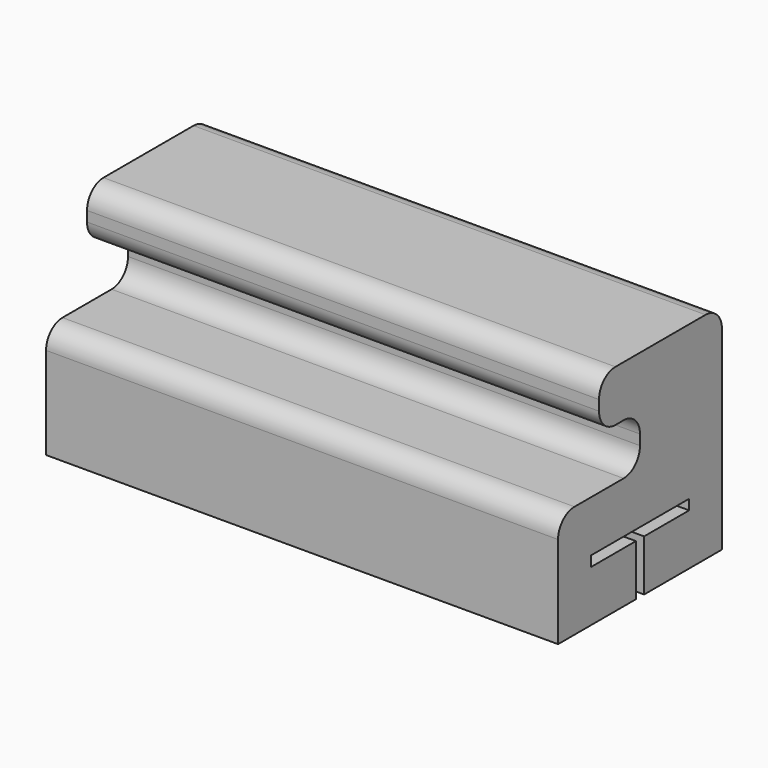
from build123d import *

# Parameters (mm, degrees)
F1_DEPTH = 25


with BuildPart() as f1:
    # F0 (on Right) → F1 (new body, symmetric)
    with BuildSketch(Plane.YZ):
        with BuildLine():
            Line((0.5, 0), (10, 0))
            Line((10, 0), (10, 19))
            ThreePointArc((10, 19), (9.414214, 20.414214), (8, 21))
            Line((8, 21), (-3, 21))
            ThreePointArc((-3, 21), (-4.414214, 20.414214), (-5, 19))
            Line((-5, 19), (-5, 18))
            ThreePointArc((-5, 18), (-4.414214, 16.585786), (-3, 16))
            Line((-3, 16), (-2, 16))
            ThreePointArc((-2, 16), (-0.585786, 15.414214), (0, 14))
            Line((0, 14), (0, 13))
            ThreePointArc((0, 13), (-0.585786, 11.585786), (-2, 11))
            Line((-2, 11), (-8, 11))
            ThreePointArc((-8, 11), (-9.414214, 10.414214), (-10, 9))
            Line((-10, 9), (-10, 0))
            Line((-10, 0), (-0.5, 0))
            Line((-0.5, 0), (-0.5, 5))
            Line((-0.5, 5), (-6, 5))
            Line((-6, 5), (-6, 6))
            Line((-6, 6), (6, 6))
            Line((6, 6), (6, 5))
            Line((6, 5), (0.5, 5))
            Line((0.5, 5), (0.5, 0))
        make_face()
    extrude(amount=F1_DEPTH, both=True)


solid = f1.part
